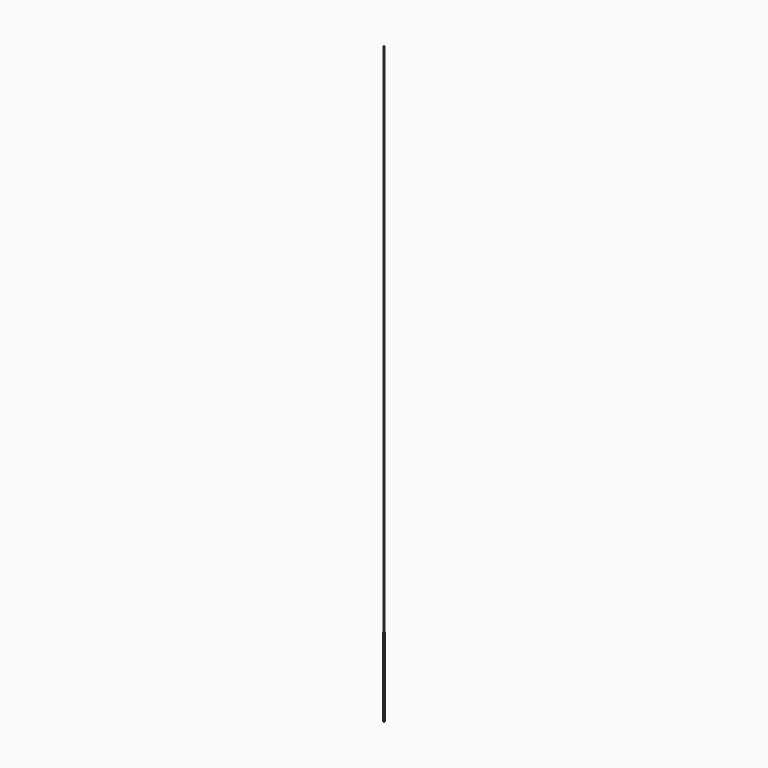
from build123d import *

# Parameters (mm, degrees)
SKETCH_W    = 50
SKETCH_H    = 50
SKETCH001_W = 40
SKETCH001_H = 40
SKETCH002_W = 40
SKETCH002_H = 40
SKETCH003_W = 20
SKETCH003_H = 20
SKETCH004_W = 20
SKETCH004_H = 20


with BuildPart() as part:
    # Sketch → Loft section 0
    with BuildSketch(Plane.XY):
        Rectangle(SKETCH_W, SKETCH_H)
    # Sketch001 → Loft section 1
    with BuildSketch(Plane.XY.offset(5000)):
        Rectangle(SKETCH001_W, SKETCH001_H)
    # Sketch002 → Loft section 2
    with BuildSketch(Plane.XY.offset(10000)):
        Rectangle(SKETCH002_W, SKETCH002_H)
    # Sketch003 → Loft section 3
    with BuildSketch(Plane.XY.offset(15000)):
        Rectangle(SKETCH003_W, SKETCH003_H)
    # Sketch004 → Loft section 4
    with BuildSketch(Plane.XY.offset(30000)):
        Rectangle(SKETCH004_W, SKETCH004_H)
    loft(ruled=True)


solid = part.part
